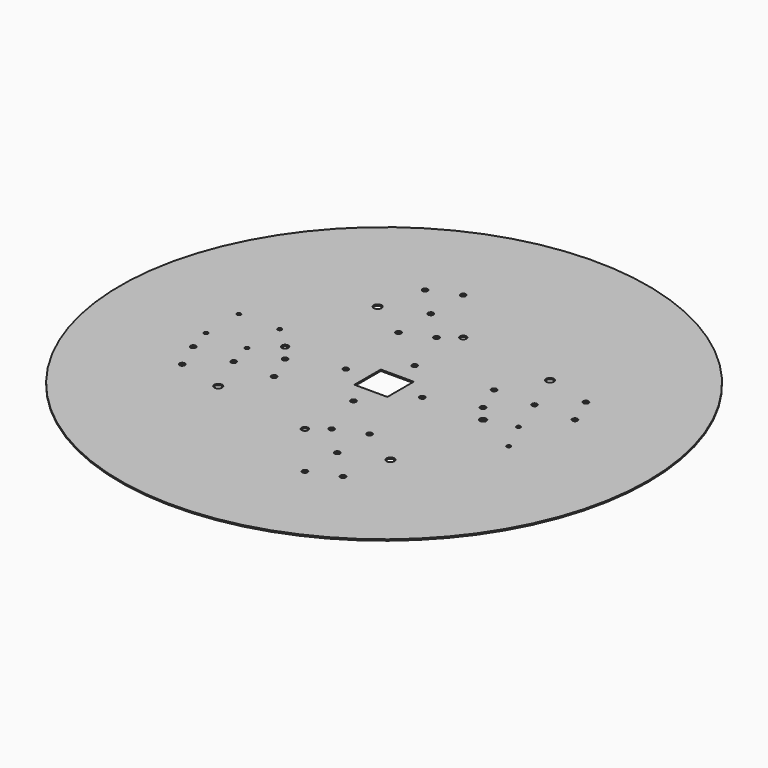
from build123d import *

# Parameters (mm, degrees)
F0_R     = 3556
F0_R_2   = 50.8
F0_R_3   = 38.1
F0_R_4   = 63.5
F0_R_5   = 76.2
F0_W     = 1270
F0_H     = 1270
F0_W_2   = 635
F0_H_2   = 635
F1_DEPTH = 25.4
F0_R_6   = 3810
F2_DEPTH = 25.4
F0_R_7   = 4064
F3_DEPTH = 25.4
F0_R_8   = 4318
F4_DEPTH = 25.4
F0_R_9   = 4572
F5_DEPTH = 25.4
F0_R_10  = 4826
F6_DEPTH = 25.4
F0_R_11  = 5080
F7_DEPTH = 25.4


with BuildPart() as f1:
    # F0 (on Top) → F1 (new body)
    with BuildSketch(Plane.XY):
        Circle(F0_R)
        with Locations((-2754.5725314135, -1413.8921345869)):
            Circle(F0_R_2, mode=Mode.SUBTRACT)
        with Locations((-2982.5043678284, -863.6)):
            Circle(F0_R_2, mode=Mode.SUBTRACT)
        with Locations((-3111.5, -393.7)):
            Circle(F0_R_3, mode=Mode.SUBTRACT)
        with Locations((-2908.3, -190.5)):
            Circle(F0_R_2, mode=Mode.SUBTRACT)
        with BuildLine():
            ThreePointArc((-1809.779211818, -1632.0470377673), (-1928.3136635741, -1695.4050222247), (-1915.1396893642, -1561.6474173899))
            ThreePointArc((-1915.1396893642, -1561.6474173899), (-1843.6447600619, -1568.6890533098), (-1809.779211818, -1632.0470377673))
        make_face(mode=Mode.SUBTRACT)
        with BuildLine():
            ThreePointArc((-2153.4803968267, -863.6), (-2162.0417405217, -891.8229678374), (-2184.8400784625, -910.5330802516))
            ThreePointArc((-2184.8400784625, -910.5330802516), (-2246.5190531316, -835.3770321626), (-2153.4803968267, -863.6))
        make_face(mode=Mode.SUBTRACT)
        with Locations((-1426.0497968267, -863.6)):
            Circle(F0_R_2, mode=Mode.SUBTRACT)
        with Locations((-2324.1, -393.7)):
            Circle(F0_R_3, mode=Mode.SUBTRACT)
        with Locations((-2527.3, -190.5)):
            Circle(F0_R_2, mode=Mode.SUBTRACT)
        with Locations((-1653.9882622398, -313.3078654131)):
            Circle(F0_R_2, mode=Mode.SUBTRACT)
        with Locations((863.6, -2982.5043678284)):
            Circle(F0_R_2, mode=Mode.SUBTRACT)
        with Locations((1413.8921345869, -2754.5725314135)):
            Circle(F0_R_2, mode=Mode.SUBTRACT)
        with Locations((863.6, -2204.2803968267)):
            Circle(F0_R_2, mode=Mode.SUBTRACT)
        with Locations((0, -1905)):
            Circle(F0_R_4, mode=Mode.SUBTRACT)
        with Locations((313.3078654131, -1653.9882622398)):
            Circle(F0_R_2, mode=Mode.SUBTRACT)
        with Locations((863.6, -1426.0497968267)):
            Circle(F0_R_2, mode=Mode.SUBTRACT)
        with Locations((1632.0470377673, -1885.979211818)):
            Circle(F0_R_5, mode=Mode.SUBTRACT)
        with Locations((0, -736.6)):
            Circle(F0_R_2, mode=Mode.SUBTRACT)
        with Locations((2743.2, -431.8)):
            Circle(F0_R_3, mode=Mode.SUBTRACT)
        with Locations((-2908.3, 190.5)):
            Circle(F0_R_2, mode=Mode.SUBTRACT)
        with Locations((-2717.8, 0)):
            Circle(F0_R_3, mode=Mode.SUBTRACT)
        with Locations((-3111.5, 393.7)):
            Circle(F0_R_3, mode=Mode.SUBTRACT)
        with Locations((-2527.3, 190.5)):
            Circle(F0_R_2, mode=Mode.SUBTRACT)
        with Locations((-2324.1, 393.7)):
            Circle(F0_R_3, mode=Mode.SUBTRACT)
        with Locations((-1905, 0)):
            Circle(F0_R_4, mode=Mode.SUBTRACT)
        with Locations((-736.6, 0)):
            Circle(F0_R_2, mode=Mode.SUBTRACT)
        with Locations((-1632.0470377673, 1885.979211818)):
            Circle(F0_R_5, mode=Mode.SUBTRACT)
        with Locations((-863.6, 1426.0497968267)):
            Circle(F0_R_2, mode=Mode.SUBTRACT)
        with Locations((-313.3078654131, 1653.9882622398)):
            Circle(F0_R_2, mode=Mode.SUBTRACT)
        with Locations((-863.6, 2204.2803968267)):
            Circle(F0_R_2, mode=Mode.SUBTRACT)
        with Locations((-1413.8921345869, 2754.5725314135)):
            Circle(F0_R_2, mode=Mode.SUBTRACT)
        with Locations((-863.6, 2982.5043678284)):
            Circle(F0_R_2, mode=Mode.SUBTRACT)
        Rectangle(F0_W, F0_H, mode=Mode.SUBTRACT)
        with Locations((736.6, 0)):
            Circle(F0_R_2, mode=Mode.SUBTRACT)
        with Locations((0, 736.6)):
            Circle(F0_R_2, mode=Mode.SUBTRACT)
        with Locations((1653.9882622398, 313.3078654131)):
            Circle(F0_R_2, mode=Mode.SUBTRACT)
        with Locations((1905, 0)):
            Circle(F0_R_4, mode=Mode.SUBTRACT)
        with Locations((2463.8, 152.4)):
            Circle(F0_R_3, mode=Mode.SUBTRACT)
        with Locations((1426.0497968267, 863.6)):
            Circle(F0_R_2, mode=Mode.SUBTRACT)
        with Locations((2204.2803968267, 863.6)):
            Circle(F0_R_2, mode=Mode.SUBTRACT)
        with Locations((0, 1905)):
            Circle(F0_R_4, mode=Mode.SUBTRACT)
        with Locations((1885.979211818, 1632.0470377673)):
            Circle(F0_R_5, mode=Mode.SUBTRACT)
        with Locations((2982.5043678284, 863.6)):
            Circle(F0_R_2, mode=Mode.SUBTRACT)
        with Locations((2754.5725314135, 1413.8921345869)):
            Circle(F0_R_2, mode=Mode.SUBTRACT)
        Rectangle(F0_W, F0_H)
        Rectangle(F0_W_2, F0_H_2, mode=Mode.SUBTRACT)
        with Locations((-2527.3, 190.5)):
            Circle(F0_R_2)
        with Locations((-2527.3, -190.5)):
            Circle(F0_R_2)
        with Locations((-2908.3, 190.5)):
            Circle(F0_R_2)
        with Locations((-2717.8, 0)):
            Circle(F0_R_3)
        with Locations((-2908.3, -190.5)):
            Circle(F0_R_2)
    extrude(amount=F1_DEPTH)


with BuildPart() as f2:
    # F0 (on Top) → F2 (new body)
    with BuildSketch(Plane.XY):
        Circle(F0_R_6)
        Circle(F0_R, mode=Mode.SUBTRACT)
        Circle(F0_R)
        with Locations((-2754.5725314135, -1413.8921345869)):
            Circle(F0_R_2, mode=Mode.SUBTRACT)
        with Locations((-2982.5043678284, -863.6)):
            Circle(F0_R_2, mode=Mode.SUBTRACT)
        with Locations((-3111.5, -393.7)):
            Circle(F0_R_3, mode=Mode.SUBTRACT)
        with Locations((-2908.3, -190.5)):
            Circle(F0_R_2, mode=Mode.SUBTRACT)
        with BuildLine():
            ThreePointArc((-1809.779211818, -1632.0470377673), (-1928.3136635741, -1695.4050222247), (-1915.1396893642, -1561.6474173899))
            ThreePointArc((-1915.1396893642, -1561.6474173899), (-1843.6447600619, -1568.6890533098), (-1809.779211818, -1632.0470377673))
        make_face(mode=Mode.SUBTRACT)
        with BuildLine():
            ThreePointArc((-2153.4803968267, -863.6), (-2162.0417405217, -891.8229678374), (-2184.8400784625, -910.5330802516))
            ThreePointArc((-2184.8400784625, -910.5330802516), (-2246.5190531316, -835.3770321626), (-2153.4803968267, -863.6))
        make_face(mode=Mode.SUBTRACT)
        with Locations((-1426.0497968267, -863.6)):
            Circle(F0_R_2, mode=Mode.SUBTRACT)
        with Locations((-2324.1, -393.7)):
            Circle(F0_R_3, mode=Mode.SUBTRACT)
        with Locations((-2527.3, -190.5)):
            Circle(F0_R_2, mode=Mode.SUBTRACT)
        with Locations((-1653.9882622398, -313.3078654131)):
            Circle(F0_R_2, mode=Mode.SUBTRACT)
        with Locations((863.6, -2982.5043678284)):
            Circle(F0_R_2, mode=Mode.SUBTRACT)
        with Locations((1413.8921345869, -2754.5725314135)):
            Circle(F0_R_2, mode=Mode.SUBTRACT)
        with Locations((863.6, -2204.2803968267)):
            Circle(F0_R_2, mode=Mode.SUBTRACT)
        with Locations((0, -1905)):
            Circle(F0_R_4, mode=Mode.SUBTRACT)
        with Locations((313.3078654131, -1653.9882622398)):
            Circle(F0_R_2, mode=Mode.SUBTRACT)
        with Locations((863.6, -1426.0497968267)):
            Circle(F0_R_2, mode=Mode.SUBTRACT)
        with Locations((1632.0470377673, -1885.979211818)):
            Circle(F0_R_5, mode=Mode.SUBTRACT)
        with Locations((0, -736.6)):
            Circle(F0_R_2, mode=Mode.SUBTRACT)
        with Locations((2743.2, -431.8)):
            Circle(F0_R_3, mode=Mode.SUBTRACT)
        with Locations((-2908.3, 190.5)):
            Circle(F0_R_2, mode=Mode.SUBTRACT)
        with Locations((-2717.8, 0)):
            Circle(F0_R_3, mode=Mode.SUBTRACT)
        with Locations((-3111.5, 393.7)):
            Circle(F0_R_3, mode=Mode.SUBTRACT)
        with Locations((-2527.3, 190.5)):
            Circle(F0_R_2, mode=Mode.SUBTRACT)
        with Locations((-2324.1, 393.7)):
            Circle(F0_R_3, mode=Mode.SUBTRACT)
        with Locations((-1905, 0)):
            Circle(F0_R_4, mode=Mode.SUBTRACT)
        with Locations((-736.6, 0)):
            Circle(F0_R_2, mode=Mode.SUBTRACT)
        with Locations((-1632.0470377673, 1885.979211818)):
            Circle(F0_R_5, mode=Mode.SUBTRACT)
        with Locations((-863.6, 1426.0497968267)):
            Circle(F0_R_2, mode=Mode.SUBTRACT)
        with Locations((-313.3078654131, 1653.9882622398)):
            Circle(F0_R_2, mode=Mode.SUBTRACT)
        with Locations((-863.6, 2204.2803968267)):
            Circle(F0_R_2, mode=Mode.SUBTRACT)
        with Locations((-1413.8921345869, 2754.5725314135)):
            Circle(F0_R_2, mode=Mode.SUBTRACT)
        with Locations((-863.6, 2982.5043678284)):
            Circle(F0_R_2, mode=Mode.SUBTRACT)
        Rectangle(F0_W, F0_H, mode=Mode.SUBTRACT)
        with Locations((736.6, 0)):
            Circle(F0_R_2, mode=Mode.SUBTRACT)
        with Locations((0, 736.6)):
            Circle(F0_R_2, mode=Mode.SUBTRACT)
        with Locations((1653.9882622398, 313.3078654131)):
            Circle(F0_R_2, mode=Mode.SUBTRACT)
        with Locations((1905, 0)):
            Circle(F0_R_4, mode=Mode.SUBTRACT)
        with Locations((2463.8, 152.4)):
            Circle(F0_R_3, mode=Mode.SUBTRACT)
        with Locations((1426.0497968267, 863.6)):
            Circle(F0_R_2, mode=Mode.SUBTRACT)
        with Locations((2204.2803968267, 863.6)):
            Circle(F0_R_2, mode=Mode.SUBTRACT)
        with Locations((0, 1905)):
            Circle(F0_R_4, mode=Mode.SUBTRACT)
        with Locations((1885.979211818, 1632.0470377673)):
            Circle(F0_R_5, mode=Mode.SUBTRACT)
        with Locations((2982.5043678284, 863.6)):
            Circle(F0_R_2, mode=Mode.SUBTRACT)
        with Locations((2754.5725314135, 1413.8921345869)):
            Circle(F0_R_2, mode=Mode.SUBTRACT)
        Rectangle(F0_W, F0_H)
        Rectangle(F0_W_2, F0_H_2, mode=Mode.SUBTRACT)
        with Locations((-2908.3, -190.5)):
            Circle(F0_R_2)
        with Locations((-2908.3, 190.5)):
            Circle(F0_R_2)
        with Locations((-2527.3, 190.5)):
            Circle(F0_R_2)
        with Locations((-2527.3, -190.5)):
            Circle(F0_R_2)
        with Locations((-2717.8, 0)):
            Circle(F0_R_3)
    extrude(amount=F2_DEPTH)


with BuildPart() as f3:
    # F0 (on Top) → F3 (new body)
    with BuildSketch(Plane.XY):
        Circle(F0_R_7)
        Circle(F0_R_6, mode=Mode.SUBTRACT)
        Circle(F0_R_6)
        Circle(F0_R, mode=Mode.SUBTRACT)
        Circle(F0_R)
        with Locations((-2754.5725314135, -1413.8921345869)):
            Circle(F0_R_2, mode=Mode.SUBTRACT)
        with Locations((-2982.5043678284, -863.6)):
            Circle(F0_R_2, mode=Mode.SUBTRACT)
        with Locations((-3111.5, -393.7)):
            Circle(F0_R_3, mode=Mode.SUBTRACT)
        with Locations((-2908.3, -190.5)):
            Circle(F0_R_2, mode=Mode.SUBTRACT)
        with BuildLine():
            ThreePointArc((-1809.779211818, -1632.0470377673), (-1928.3136635741, -1695.4050222247), (-1915.1396893642, -1561.6474173899))
            ThreePointArc((-1915.1396893642, -1561.6474173899), (-1843.6447600619, -1568.6890533098), (-1809.779211818, -1632.0470377673))
        make_face(mode=Mode.SUBTRACT)
        with BuildLine():
            ThreePointArc((-2153.4803968267, -863.6), (-2162.0417405217, -891.8229678374), (-2184.8400784625, -910.5330802516))
            ThreePointArc((-2184.8400784625, -910.5330802516), (-2246.5190531316, -835.3770321626), (-2153.4803968267, -863.6))
        make_face(mode=Mode.SUBTRACT)
        with Locations((-1426.0497968267, -863.6)):
            Circle(F0_R_2, mode=Mode.SUBTRACT)
        with Locations((-2324.1, -393.7)):
            Circle(F0_R_3, mode=Mode.SUBTRACT)
        with Locations((-2527.3, -190.5)):
            Circle(F0_R_2, mode=Mode.SUBTRACT)
        with Locations((-1653.9882622398, -313.3078654131)):
            Circle(F0_R_2, mode=Mode.SUBTRACT)
        with Locations((863.6, -2982.5043678284)):
            Circle(F0_R_2, mode=Mode.SUBTRACT)
        with Locations((1413.8921345869, -2754.5725314135)):
            Circle(F0_R_2, mode=Mode.SUBTRACT)
        with Locations((863.6, -2204.2803968267)):
            Circle(F0_R_2, mode=Mode.SUBTRACT)
        with Locations((0, -1905)):
            Circle(F0_R_4, mode=Mode.SUBTRACT)
        with Locations((313.3078654131, -1653.9882622398)):
            Circle(F0_R_2, mode=Mode.SUBTRACT)
        with Locations((863.6, -1426.0497968267)):
            Circle(F0_R_2, mode=Mode.SUBTRACT)
        with Locations((1632.0470377673, -1885.979211818)):
            Circle(F0_R_5, mode=Mode.SUBTRACT)
        with Locations((0, -736.6)):
            Circle(F0_R_2, mode=Mode.SUBTRACT)
        with Locations((2743.2, -431.8)):
            Circle(F0_R_3, mode=Mode.SUBTRACT)
        with Locations((-2908.3, 190.5)):
            Circle(F0_R_2, mode=Mode.SUBTRACT)
        with Locations((-2717.8, 0)):
            Circle(F0_R_3, mode=Mode.SUBTRACT)
        with Locations((-3111.5, 393.7)):
            Circle(F0_R_3, mode=Mode.SUBTRACT)
        with Locations((-2527.3, 190.5)):
            Circle(F0_R_2, mode=Mode.SUBTRACT)
        with Locations((-2324.1, 393.7)):
            Circle(F0_R_3, mode=Mode.SUBTRACT)
        with Locations((-1905, 0)):
            Circle(F0_R_4, mode=Mode.SUBTRACT)
        with Locations((-736.6, 0)):
            Circle(F0_R_2, mode=Mode.SUBTRACT)
        with Locations((-1632.0470377673, 1885.979211818)):
            Circle(F0_R_5, mode=Mode.SUBTRACT)
        with Locations((-863.6, 1426.0497968267)):
            Circle(F0_R_2, mode=Mode.SUBTRACT)
        with Locations((-313.3078654131, 1653.9882622398)):
            Circle(F0_R_2, mode=Mode.SUBTRACT)
        with Locations((-863.6, 2204.2803968267)):
            Circle(F0_R_2, mode=Mode.SUBTRACT)
        with Locations((-1413.8921345869, 2754.5725314135)):
            Circle(F0_R_2, mode=Mode.SUBTRACT)
        with Locations((-863.6, 2982.5043678284)):
            Circle(F0_R_2, mode=Mode.SUBTRACT)
        Rectangle(F0_W, F0_H, mode=Mode.SUBTRACT)
        with Locations((736.6, 0)):
            Circle(F0_R_2, mode=Mode.SUBTRACT)
        with Locations((0, 736.6)):
            Circle(F0_R_2, mode=Mode.SUBTRACT)
        with Locations((1653.9882622398, 313.3078654131)):
            Circle(F0_R_2, mode=Mode.SUBTRACT)
        with Locations((1905, 0)):
            Circle(F0_R_4, mode=Mode.SUBTRACT)
        with Locations((2463.8, 152.4)):
            Circle(F0_R_3, mode=Mode.SUBTRACT)
        with Locations((1426.0497968267, 863.6)):
            Circle(F0_R_2, mode=Mode.SUBTRACT)
        with Locations((2204.2803968267, 863.6)):
            Circle(F0_R_2, mode=Mode.SUBTRACT)
        with Locations((0, 1905)):
            Circle(F0_R_4, mode=Mode.SUBTRACT)
        with Locations((1885.979211818, 1632.0470377673)):
            Circle(F0_R_5, mode=Mode.SUBTRACT)
        with Locations((2982.5043678284, 863.6)):
            Circle(F0_R_2, mode=Mode.SUBTRACT)
        with Locations((2754.5725314135, 1413.8921345869)):
            Circle(F0_R_2, mode=Mode.SUBTRACT)
        Rectangle(F0_W, F0_H)
        Rectangle(F0_W_2, F0_H_2, mode=Mode.SUBTRACT)
        with Locations((-2908.3, 190.5)):
            Circle(F0_R_2)
        with Locations((-2527.3, 190.5)):
            Circle(F0_R_2)
        with Locations((-2527.3, -190.5)):
            Circle(F0_R_2)
        with Locations((-2717.8, 0)):
            Circle(F0_R_3)
        with Locations((-2908.3, -190.5)):
            Circle(F0_R_2)
    extrude(amount=F3_DEPTH)


with BuildPart() as f4:
    # F0 (on Top) → F4 (new body)
    with BuildSketch(Plane.XY):
        Circle(F0_R_8)
        Circle(F0_R_7, mode=Mode.SUBTRACT)
        Circle(F0_R_7)
        Circle(F0_R_6, mode=Mode.SUBTRACT)
        Circle(F0_R_6)
        Circle(F0_R, mode=Mode.SUBTRACT)
        Circle(F0_R)
        with Locations((-2754.5725314135, -1413.8921345869)):
            Circle(F0_R_2, mode=Mode.SUBTRACT)
        with Locations((-2982.5043678284, -863.6)):
            Circle(F0_R_2, mode=Mode.SUBTRACT)
        with Locations((-3111.5, -393.7)):
            Circle(F0_R_3, mode=Mode.SUBTRACT)
        with Locations((-2908.3, -190.5)):
            Circle(F0_R_2, mode=Mode.SUBTRACT)
        with BuildLine():
            ThreePointArc((-1809.779211818, -1632.0470377673), (-1928.3136635741, -1695.4050222247), (-1915.1396893642, -1561.6474173899))
            ThreePointArc((-1915.1396893642, -1561.6474173899), (-1843.6447600619, -1568.6890533098), (-1809.779211818, -1632.0470377673))
        make_face(mode=Mode.SUBTRACT)
        with BuildLine():
            ThreePointArc((-2153.4803968267, -863.6), (-2162.0417405217, -891.8229678374), (-2184.8400784625, -910.5330802516))
            ThreePointArc((-2184.8400784625, -910.5330802516), (-2246.5190531316, -835.3770321626), (-2153.4803968267, -863.6))
        make_face(mode=Mode.SUBTRACT)
        with Locations((-1426.0497968267, -863.6)):
            Circle(F0_R_2, mode=Mode.SUBTRACT)
        with Locations((-2324.1, -393.7)):
            Circle(F0_R_3, mode=Mode.SUBTRACT)
        with Locations((-2527.3, -190.5)):
            Circle(F0_R_2, mode=Mode.SUBTRACT)
        with Locations((-1653.9882622398, -313.3078654131)):
            Circle(F0_R_2, mode=Mode.SUBTRACT)
        with Locations((863.6, -2982.5043678284)):
            Circle(F0_R_2, mode=Mode.SUBTRACT)
        with Locations((1413.8921345869, -2754.5725314135)):
            Circle(F0_R_2, mode=Mode.SUBTRACT)
        with Locations((863.6, -2204.2803968267)):
            Circle(F0_R_2, mode=Mode.SUBTRACT)
        with Locations((0, -1905)):
            Circle(F0_R_4, mode=Mode.SUBTRACT)
        with Locations((313.3078654131, -1653.9882622398)):
            Circle(F0_R_2, mode=Mode.SUBTRACT)
        with Locations((863.6, -1426.0497968267)):
            Circle(F0_R_2, mode=Mode.SUBTRACT)
        with Locations((1632.0470377673, -1885.979211818)):
            Circle(F0_R_5, mode=Mode.SUBTRACT)
        with Locations((0, -736.6)):
            Circle(F0_R_2, mode=Mode.SUBTRACT)
        with Locations((2743.2, -431.8)):
            Circle(F0_R_3, mode=Mode.SUBTRACT)
        with Locations((-2908.3, 190.5)):
            Circle(F0_R_2, mode=Mode.SUBTRACT)
        with Locations((-2717.8, 0)):
            Circle(F0_R_3, mode=Mode.SUBTRACT)
        with Locations((-3111.5, 393.7)):
            Circle(F0_R_3, mode=Mode.SUBTRACT)
        with Locations((-2527.3, 190.5)):
            Circle(F0_R_2, mode=Mode.SUBTRACT)
        with Locations((-2324.1, 393.7)):
            Circle(F0_R_3, mode=Mode.SUBTRACT)
        with Locations((-1905, 0)):
            Circle(F0_R_4, mode=Mode.SUBTRACT)
        with Locations((-736.6, 0)):
            Circle(F0_R_2, mode=Mode.SUBTRACT)
        with Locations((-1632.0470377673, 1885.979211818)):
            Circle(F0_R_5, mode=Mode.SUBTRACT)
        with Locations((-863.6, 1426.0497968267)):
            Circle(F0_R_2, mode=Mode.SUBTRACT)
        with Locations((-313.3078654131, 1653.9882622398)):
            Circle(F0_R_2, mode=Mode.SUBTRACT)
        with Locations((-863.6, 2204.2803968267)):
            Circle(F0_R_2, mode=Mode.SUBTRACT)
        with Locations((-1413.8921345869, 2754.5725314135)):
            Circle(F0_R_2, mode=Mode.SUBTRACT)
        with Locations((-863.6, 2982.5043678284)):
            Circle(F0_R_2, mode=Mode.SUBTRACT)
        Rectangle(F0_W, F0_H, mode=Mode.SUBTRACT)
        with Locations((736.6, 0)):
            Circle(F0_R_2, mode=Mode.SUBTRACT)
        with Locations((0, 736.6)):
            Circle(F0_R_2, mode=Mode.SUBTRACT)
        with Locations((1653.9882622398, 313.3078654131)):
            Circle(F0_R_2, mode=Mode.SUBTRACT)
        with Locations((1905, 0)):
            Circle(F0_R_4, mode=Mode.SUBTRACT)
        with Locations((2463.8, 152.4)):
            Circle(F0_R_3, mode=Mode.SUBTRACT)
        with Locations((1426.0497968267, 863.6)):
            Circle(F0_R_2, mode=Mode.SUBTRACT)
        with Locations((2204.2803968267, 863.6)):
            Circle(F0_R_2, mode=Mode.SUBTRACT)
        with Locations((0, 1905)):
            Circle(F0_R_4, mode=Mode.SUBTRACT)
        with Locations((1885.979211818, 1632.0470377673)):
            Circle(F0_R_5, mode=Mode.SUBTRACT)
        with Locations((2982.5043678284, 863.6)):
            Circle(F0_R_2, mode=Mode.SUBTRACT)
        with Locations((2754.5725314135, 1413.8921345869)):
            Circle(F0_R_2, mode=Mode.SUBTRACT)
        Rectangle(F0_W, F0_H)
        Rectangle(F0_W_2, F0_H_2, mode=Mode.SUBTRACT)
        with Locations((-2908.3, 190.5)):
            Circle(F0_R_2)
        with Locations((-2527.3, 190.5)):
            Circle(F0_R_2)
        with Locations((-2527.3, -190.5)):
            Circle(F0_R_2)
        with Locations((-2717.8, 0)):
            Circle(F0_R_3)
        with Locations((-2908.3, -190.5)):
            Circle(F0_R_2)
    extrude(amount=F4_DEPTH)


with BuildPart() as f5:
    # F0 (on Top) → F5 (new body)
    with BuildSketch(Plane.XY):
        Circle(F0_R_9)
        Circle(F0_R_8, mode=Mode.SUBTRACT)
        Circle(F0_R_8)
        Circle(F0_R_7, mode=Mode.SUBTRACT)
        Circle(F0_R_7)
        Circle(F0_R_6, mode=Mode.SUBTRACT)
        Circle(F0_R_6)
        Circle(F0_R, mode=Mode.SUBTRACT)
        Circle(F0_R)
        with Locations((-2754.5725314135, -1413.8921345869)):
            Circle(F0_R_2, mode=Mode.SUBTRACT)
        with Locations((-2982.5043678284, -863.6)):
            Circle(F0_R_2, mode=Mode.SUBTRACT)
        with Locations((-3111.5, -393.7)):
            Circle(F0_R_3, mode=Mode.SUBTRACT)
        with Locations((-2908.3, -190.5)):
            Circle(F0_R_2, mode=Mode.SUBTRACT)
        with BuildLine():
            ThreePointArc((-1809.779211818, -1632.0470377673), (-1928.3136635741, -1695.4050222247), (-1915.1396893642, -1561.6474173899))
            ThreePointArc((-1915.1396893642, -1561.6474173899), (-1843.6447600619, -1568.6890533098), (-1809.779211818, -1632.0470377673))
        make_face(mode=Mode.SUBTRACT)
        with BuildLine():
            ThreePointArc((-2153.4803968267, -863.6), (-2162.0417405217, -891.8229678374), (-2184.8400784625, -910.5330802516))
            ThreePointArc((-2184.8400784625, -910.5330802516), (-2246.5190531316, -835.3770321626), (-2153.4803968267, -863.6))
        make_face(mode=Mode.SUBTRACT)
        with Locations((-1426.0497968267, -863.6)):
            Circle(F0_R_2, mode=Mode.SUBTRACT)
        with Locations((-2324.1, -393.7)):
            Circle(F0_R_3, mode=Mode.SUBTRACT)
        with Locations((-2527.3, -190.5)):
            Circle(F0_R_2, mode=Mode.SUBTRACT)
        with Locations((-1653.9882622398, -313.3078654131)):
            Circle(F0_R_2, mode=Mode.SUBTRACT)
        with Locations((863.6, -2982.5043678284)):
            Circle(F0_R_2, mode=Mode.SUBTRACT)
        with Locations((1413.8921345869, -2754.5725314135)):
            Circle(F0_R_2, mode=Mode.SUBTRACT)
        with Locations((863.6, -2204.2803968267)):
            Circle(F0_R_2, mode=Mode.SUBTRACT)
        with Locations((0, -1905)):
            Circle(F0_R_4, mode=Mode.SUBTRACT)
        with Locations((313.3078654131, -1653.9882622398)):
            Circle(F0_R_2, mode=Mode.SUBTRACT)
        with Locations((863.6, -1426.0497968267)):
            Circle(F0_R_2, mode=Mode.SUBTRACT)
        with Locations((1632.0470377673, -1885.979211818)):
            Circle(F0_R_5, mode=Mode.SUBTRACT)
        with Locations((0, -736.6)):
            Circle(F0_R_2, mode=Mode.SUBTRACT)
        with Locations((2743.2, -431.8)):
            Circle(F0_R_3, mode=Mode.SUBTRACT)
        with Locations((-2908.3, 190.5)):
            Circle(F0_R_2, mode=Mode.SUBTRACT)
        with Locations((-2717.8, 0)):
            Circle(F0_R_3, mode=Mode.SUBTRACT)
        with Locations((-3111.5, 393.7)):
            Circle(F0_R_3, mode=Mode.SUBTRACT)
        with Locations((-2527.3, 190.5)):
            Circle(F0_R_2, mode=Mode.SUBTRACT)
        with Locations((-2324.1, 393.7)):
            Circle(F0_R_3, mode=Mode.SUBTRACT)
        with Locations((-1905, 0)):
            Circle(F0_R_4, mode=Mode.SUBTRACT)
        with Locations((-736.6, 0)):
            Circle(F0_R_2, mode=Mode.SUBTRACT)
        with Locations((-1632.0470377673, 1885.979211818)):
            Circle(F0_R_5, mode=Mode.SUBTRACT)
        with Locations((-863.6, 1426.0497968267)):
            Circle(F0_R_2, mode=Mode.SUBTRACT)
        with Locations((-313.3078654131, 1653.9882622398)):
            Circle(F0_R_2, mode=Mode.SUBTRACT)
        with Locations((-863.6, 2204.2803968267)):
            Circle(F0_R_2, mode=Mode.SUBTRACT)
        with Locations((-1413.8921345869, 2754.5725314135)):
            Circle(F0_R_2, mode=Mode.SUBTRACT)
        with Locations((-863.6, 2982.5043678284)):
            Circle(F0_R_2, mode=Mode.SUBTRACT)
        Rectangle(F0_W, F0_H, mode=Mode.SUBTRACT)
        with Locations((736.6, 0)):
            Circle(F0_R_2, mode=Mode.SUBTRACT)
        with Locations((0, 736.6)):
            Circle(F0_R_2, mode=Mode.SUBTRACT)
        with Locations((1653.9882622398, 313.3078654131)):
            Circle(F0_R_2, mode=Mode.SUBTRACT)
        with Locations((1905, 0)):
            Circle(F0_R_4, mode=Mode.SUBTRACT)
        with Locations((2463.8, 152.4)):
            Circle(F0_R_3, mode=Mode.SUBTRACT)
        with Locations((1426.0497968267, 863.6)):
            Circle(F0_R_2, mode=Mode.SUBTRACT)
        with Locations((2204.2803968267, 863.6)):
            Circle(F0_R_2, mode=Mode.SUBTRACT)
        with Locations((0, 1905)):
            Circle(F0_R_4, mode=Mode.SUBTRACT)
        with Locations((1885.979211818, 1632.0470377673)):
            Circle(F0_R_5, mode=Mode.SUBTRACT)
        with Locations((2982.5043678284, 863.6)):
            Circle(F0_R_2, mode=Mode.SUBTRACT)
        with Locations((2754.5725314135, 1413.8921345869)):
            Circle(F0_R_2, mode=Mode.SUBTRACT)
        Rectangle(F0_W, F0_H)
        Rectangle(F0_W_2, F0_H_2, mode=Mode.SUBTRACT)
        with Locations((-2908.3, 190.5)):
            Circle(F0_R_2)
        with Locations((-2527.3, 190.5)):
            Circle(F0_R_2)
        with Locations((-2527.3, -190.5)):
            Circle(F0_R_2)
        with Locations((-2908.3, -190.5)):
            Circle(F0_R_2)
        with Locations((-2717.8, 0)):
            Circle(F0_R_3)
    extrude(amount=F5_DEPTH)


with BuildPart() as f6:
    # F0 (on Top) → F6 (new body)
    with BuildSketch(Plane.XY):
        Circle(F0_R_10)
        Circle(F0_R_9, mode=Mode.SUBTRACT)
        Circle(F0_R_9)
        Circle(F0_R_8, mode=Mode.SUBTRACT)
        Circle(F0_R_8)
        Circle(F0_R_7, mode=Mode.SUBTRACT)
        Circle(F0_R_7)
        Circle(F0_R_6, mode=Mode.SUBTRACT)
        Circle(F0_R_6)
        Circle(F0_R, mode=Mode.SUBTRACT)
        Circle(F0_R)
        with Locations((-2754.5725314135, -1413.8921345869)):
            Circle(F0_R_2, mode=Mode.SUBTRACT)
        with Locations((-2982.5043678284, -863.6)):
            Circle(F0_R_2, mode=Mode.SUBTRACT)
        with Locations((-3111.5, -393.7)):
            Circle(F0_R_3, mode=Mode.SUBTRACT)
        with Locations((-2908.3, -190.5)):
            Circle(F0_R_2, mode=Mode.SUBTRACT)
        with BuildLine():
            ThreePointArc((-1809.779211818, -1632.0470377673), (-1928.3136635741, -1695.4050222247), (-1915.1396893642, -1561.6474173899))
            ThreePointArc((-1915.1396893642, -1561.6474173899), (-1843.6447600619, -1568.6890533098), (-1809.779211818, -1632.0470377673))
        make_face(mode=Mode.SUBTRACT)
        with BuildLine():
            ThreePointArc((-2153.4803968267, -863.6), (-2162.0417405217, -891.8229678374), (-2184.8400784625, -910.5330802516))
            ThreePointArc((-2184.8400784625, -910.5330802516), (-2246.5190531316, -835.3770321626), (-2153.4803968267, -863.6))
        make_face(mode=Mode.SUBTRACT)
        with Locations((-1426.0497968267, -863.6)):
            Circle(F0_R_2, mode=Mode.SUBTRACT)
        with Locations((-2324.1, -393.7)):
            Circle(F0_R_3, mode=Mode.SUBTRACT)
        with Locations((-2527.3, -190.5)):
            Circle(F0_R_2, mode=Mode.SUBTRACT)
        with Locations((-1653.9882622398, -313.3078654131)):
            Circle(F0_R_2, mode=Mode.SUBTRACT)
        with Locations((863.6, -2982.5043678284)):
            Circle(F0_R_2, mode=Mode.SUBTRACT)
        with Locations((1413.8921345869, -2754.5725314135)):
            Circle(F0_R_2, mode=Mode.SUBTRACT)
        with Locations((863.6, -2204.2803968267)):
            Circle(F0_R_2, mode=Mode.SUBTRACT)
        with Locations((0, -1905)):
            Circle(F0_R_4, mode=Mode.SUBTRACT)
        with Locations((313.3078654131, -1653.9882622398)):
            Circle(F0_R_2, mode=Mode.SUBTRACT)
        with Locations((863.6, -1426.0497968267)):
            Circle(F0_R_2, mode=Mode.SUBTRACT)
        with Locations((1632.0470377673, -1885.979211818)):
            Circle(F0_R_5, mode=Mode.SUBTRACT)
        with Locations((0, -736.6)):
            Circle(F0_R_2, mode=Mode.SUBTRACT)
        with Locations((2743.2, -431.8)):
            Circle(F0_R_3, mode=Mode.SUBTRACT)
        with Locations((-2908.3, 190.5)):
            Circle(F0_R_2, mode=Mode.SUBTRACT)
        with Locations((-2717.8, 0)):
            Circle(F0_R_3, mode=Mode.SUBTRACT)
        with Locations((-3111.5, 393.7)):
            Circle(F0_R_3, mode=Mode.SUBTRACT)
        with Locations((-2527.3, 190.5)):
            Circle(F0_R_2, mode=Mode.SUBTRACT)
        with Locations((-2324.1, 393.7)):
            Circle(F0_R_3, mode=Mode.SUBTRACT)
        with Locations((-1905, 0)):
            Circle(F0_R_4, mode=Mode.SUBTRACT)
        with Locations((-736.6, 0)):
            Circle(F0_R_2, mode=Mode.SUBTRACT)
        with Locations((-1632.0470377673, 1885.979211818)):
            Circle(F0_R_5, mode=Mode.SUBTRACT)
        with Locations((-863.6, 1426.0497968267)):
            Circle(F0_R_2, mode=Mode.SUBTRACT)
        with Locations((-313.3078654131, 1653.9882622398)):
            Circle(F0_R_2, mode=Mode.SUBTRACT)
        with Locations((-863.6, 2204.2803968267)):
            Circle(F0_R_2, mode=Mode.SUBTRACT)
        with Locations((-1413.8921345869, 2754.5725314135)):
            Circle(F0_R_2, mode=Mode.SUBTRACT)
        with Locations((-863.6, 2982.5043678284)):
            Circle(F0_R_2, mode=Mode.SUBTRACT)
        Rectangle(F0_W, F0_H, mode=Mode.SUBTRACT)
        with Locations((736.6, 0)):
            Circle(F0_R_2, mode=Mode.SUBTRACT)
        with Locations((0, 736.6)):
            Circle(F0_R_2, mode=Mode.SUBTRACT)
        with Locations((1653.9882622398, 313.3078654131)):
            Circle(F0_R_2, mode=Mode.SUBTRACT)
        with Locations((1905, 0)):
            Circle(F0_R_4, mode=Mode.SUBTRACT)
        with Locations((2463.8, 152.4)):
            Circle(F0_R_3, mode=Mode.SUBTRACT)
        with Locations((1426.0497968267, 863.6)):
            Circle(F0_R_2, mode=Mode.SUBTRACT)
        with Locations((2204.2803968267, 863.6)):
            Circle(F0_R_2, mode=Mode.SUBTRACT)
        with Locations((0, 1905)):
            Circle(F0_R_4, mode=Mode.SUBTRACT)
        with Locations((1885.979211818, 1632.0470377673)):
            Circle(F0_R_5, mode=Mode.SUBTRACT)
        with Locations((2982.5043678284, 863.6)):
            Circle(F0_R_2, mode=Mode.SUBTRACT)
        with Locations((2754.5725314135, 1413.8921345869)):
            Circle(F0_R_2, mode=Mode.SUBTRACT)
        Rectangle(F0_W, F0_H)
        Rectangle(F0_W_2, F0_H_2, mode=Mode.SUBTRACT)
        with Locations((-2908.3, 190.5)):
            Circle(F0_R_2)
        with Locations((-2527.3, 190.5)):
            Circle(F0_R_2)
        with Locations((-2717.8, 0)):
            Circle(F0_R_3)
        with Locations((-2908.3, -190.5)):
            Circle(F0_R_2)
        with Locations((-2527.3, -190.5)):
            Circle(F0_R_2)
    extrude(amount=F6_DEPTH)


with BuildPart() as f7:
    # F0 (on Top) → F7 (new body)
    with BuildSketch(Plane.XY):
        Circle(F0_R_11)
        Circle(F0_R_10, mode=Mode.SUBTRACT)
        Circle(F0_R_10)
        Circle(F0_R_9, mode=Mode.SUBTRACT)
        Circle(F0_R_9)
        Circle(F0_R_8, mode=Mode.SUBTRACT)
        Circle(F0_R_8)
        Circle(F0_R_7, mode=Mode.SUBTRACT)
        Circle(F0_R_7)
        Circle(F0_R_6, mode=Mode.SUBTRACT)
        Circle(F0_R_6)
        Circle(F0_R, mode=Mode.SUBTRACT)
        Circle(F0_R)
        with Locations((-2754.5725314135, -1413.8921345869)):
            Circle(F0_R_2, mode=Mode.SUBTRACT)
        with Locations((-2982.5043678284, -863.6)):
            Circle(F0_R_2, mode=Mode.SUBTRACT)
        with Locations((-3111.5, -393.7)):
            Circle(F0_R_3, mode=Mode.SUBTRACT)
        with Locations((-2908.3, -190.5)):
            Circle(F0_R_2, mode=Mode.SUBTRACT)
        with BuildLine():
            ThreePointArc((-1809.779211818, -1632.0470377673), (-1928.3136635741, -1695.4050222247), (-1915.1396893642, -1561.6474173899))
            ThreePointArc((-1915.1396893642, -1561.6474173899), (-1843.6447600619, -1568.6890533098), (-1809.779211818, -1632.0470377673))
        make_face(mode=Mode.SUBTRACT)
        with BuildLine():
            ThreePointArc((-2153.4803968267, -863.6), (-2162.0417405217, -891.8229678374), (-2184.8400784625, -910.5330802516))
            ThreePointArc((-2184.8400784625, -910.5330802516), (-2246.5190531316, -835.3770321626), (-2153.4803968267, -863.6))
        make_face(mode=Mode.SUBTRACT)
        with Locations((-1426.0497968267, -863.6)):
            Circle(F0_R_2, mode=Mode.SUBTRACT)
        with Locations((-2324.1, -393.7)):
            Circle(F0_R_3, mode=Mode.SUBTRACT)
        with Locations((-2527.3, -190.5)):
            Circle(F0_R_2, mode=Mode.SUBTRACT)
        with Locations((-1653.9882622398, -313.3078654131)):
            Circle(F0_R_2, mode=Mode.SUBTRACT)
        with Locations((863.6, -2982.5043678284)):
            Circle(F0_R_2, mode=Mode.SUBTRACT)
        with Locations((1413.8921345869, -2754.5725314135)):
            Circle(F0_R_2, mode=Mode.SUBTRACT)
        with Locations((863.6, -2204.2803968267)):
            Circle(F0_R_2, mode=Mode.SUBTRACT)
        with Locations((0, -1905)):
            Circle(F0_R_4, mode=Mode.SUBTRACT)
        with Locations((313.3078654131, -1653.9882622398)):
            Circle(F0_R_2, mode=Mode.SUBTRACT)
        with Locations((863.6, -1426.0497968267)):
            Circle(F0_R_2, mode=Mode.SUBTRACT)
        with Locations((1632.0470377673, -1885.979211818)):
            Circle(F0_R_5, mode=Mode.SUBTRACT)
        with Locations((0, -736.6)):
            Circle(F0_R_2, mode=Mode.SUBTRACT)
        with Locations((2743.2, -431.8)):
            Circle(F0_R_3, mode=Mode.SUBTRACT)
        with Locations((-2908.3, 190.5)):
            Circle(F0_R_2, mode=Mode.SUBTRACT)
        with Locations((-2717.8, 0)):
            Circle(F0_R_3, mode=Mode.SUBTRACT)
        with Locations((-3111.5, 393.7)):
            Circle(F0_R_3, mode=Mode.SUBTRACT)
        with Locations((-2527.3, 190.5)):
            Circle(F0_R_2, mode=Mode.SUBTRACT)
        with Locations((-2324.1, 393.7)):
            Circle(F0_R_3, mode=Mode.SUBTRACT)
        with Locations((-1905, 0)):
            Circle(F0_R_4, mode=Mode.SUBTRACT)
        with Locations((-736.6, 0)):
            Circle(F0_R_2, mode=Mode.SUBTRACT)
        with Locations((-1632.0470377673, 1885.979211818)):
            Circle(F0_R_5, mode=Mode.SUBTRACT)
        with Locations((-863.6, 1426.0497968267)):
            Circle(F0_R_2, mode=Mode.SUBTRACT)
        with Locations((-313.3078654131, 1653.9882622398)):
            Circle(F0_R_2, mode=Mode.SUBTRACT)
        with Locations((-863.6, 2204.2803968267)):
            Circle(F0_R_2, mode=Mode.SUBTRACT)
        with Locations((-1413.8921345869, 2754.5725314135)):
            Circle(F0_R_2, mode=Mode.SUBTRACT)
        with Locations((-863.6, 2982.5043678284)):
            Circle(F0_R_2, mode=Mode.SUBTRACT)
        Rectangle(F0_W, F0_H, mode=Mode.SUBTRACT)
        with Locations((736.6, 0)):
            Circle(F0_R_2, mode=Mode.SUBTRACT)
        with Locations((0, 736.6)):
            Circle(F0_R_2, mode=Mode.SUBTRACT)
        with Locations((1653.9882622398, 313.3078654131)):
            Circle(F0_R_2, mode=Mode.SUBTRACT)
        with Locations((1905, 0)):
            Circle(F0_R_4, mode=Mode.SUBTRACT)
        with Locations((2463.8, 152.4)):
            Circle(F0_R_3, mode=Mode.SUBTRACT)
        with Locations((1426.0497968267, 863.6)):
            Circle(F0_R_2, mode=Mode.SUBTRACT)
        with Locations((2204.2803968267, 863.6)):
            Circle(F0_R_2, mode=Mode.SUBTRACT)
        with Locations((0, 1905)):
            Circle(F0_R_4, mode=Mode.SUBTRACT)
        with Locations((1885.979211818, 1632.0470377673)):
            Circle(F0_R_5, mode=Mode.SUBTRACT)
        with Locations((2982.5043678284, 863.6)):
            Circle(F0_R_2, mode=Mode.SUBTRACT)
        with Locations((2754.5725314135, 1413.8921345869)):
            Circle(F0_R_2, mode=Mode.SUBTRACT)
        Rectangle(F0_W, F0_H)
        Rectangle(F0_W_2, F0_H_2, mode=Mode.SUBTRACT)
        with Locations((-2908.3, 190.5)):
            Circle(F0_R_2)
        with Locations((-2527.3, 190.5)):
            Circle(F0_R_2)
        with Locations((-2527.3, -190.5)):
            Circle(F0_R_2)
        with Locations((-2717.8, 0)):
            Circle(F0_R_3)
        with Locations((-2908.3, -190.5)):
            Circle(F0_R_2)
    extrude(amount=F7_DEPTH)


solid = Compound([f1.part, f2.part, f3.part, f4.part, f5.part, f6.part, f7.part])
